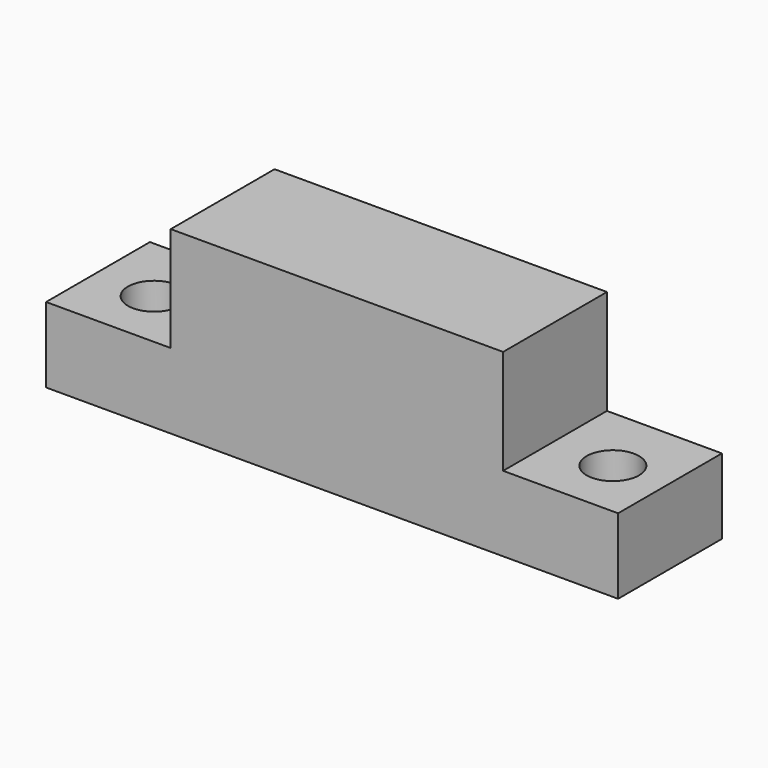
from build123d import *

# Parameters (mm, degrees)
F0_W     = 247.035488
F0_H     = 56.043873
F1_DEPTH = 32.512
F2_R     = 11.307097
F3_DEPTH = 43.434
F4_W     = 143.55097
F4_H     = 56.043873
F5_DEPTH = 45.212


with BuildPart() as f1:
    # F0 (on Top) → F1 (new body)
    with BuildSketch(Plane.XY):
        with Locations((0, 1.966451)):
            Rectangle(F0_W, F0_H)
    extrude(amount=F1_DEPTH)

    # F2 (on face) → F3 (cut)
    with BuildSketch(Plane.XY.offset(32.512)):
        with Locations((100.411944, 0)):
            Circle(F2_R)
        with Locations((-97.708069, 0)):
            Circle(F2_R)
    extrude(amount=-F3_DEPTH, mode=Mode.SUBTRACT)

    # F4 (on face) → F5 (join)
    with BuildSketch(Plane.XY.offset(32.512)):
        with Locations((2.089355, 1.966451)):
            Rectangle(F4_W, F4_H)
    extrude(amount=F5_DEPTH)


solid = f1.part
